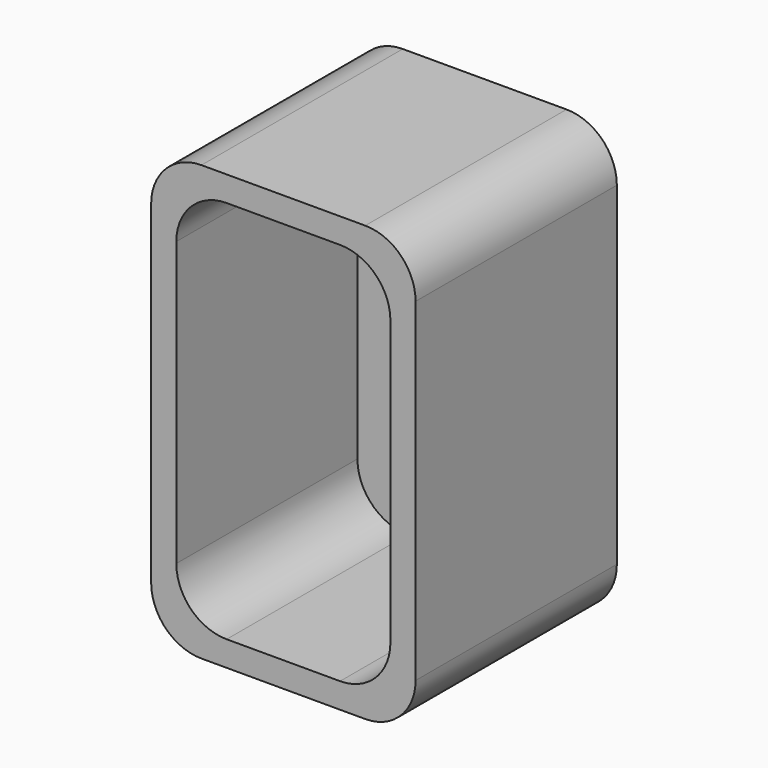
from build123d import *

# Parameters (mm, degrees)
F0_W     = 52.5484979153
F0_H     = 51.326431334
F1_DEPTH = 50
F2_DEPTH = 35
F3_T     = -5
F4_R     = 10
F5_R     = 10


with BuildPart() as f1:
    # F0 (on Front) → F1 (new body)
    with BuildSketch(Plane.XZ):
        with Locations((26.2742489576, 25.663215667)):
            Rectangle(F0_W, F0_H)
    extrude(amount=F1_DEPTH)

    # F2 (add): a face of the model
    f2_faces = [f1.faces().sort_by_distance(p)[0] for p in [
        (26.2742489576, -25, 51.326431334),
    ]]
    extrude(f2_faces, amount=F2_DEPTH)

    # F3
    f3_openings = [f1.faces().sort_by_distance(p)[0] for p in [
        (26.274249, -50, 43.163216),
    ]]
    offset(amount=F3_T, openings=f3_openings)

    # F4
    f4_edges = [f1.edges().sort_by_distance(p)[0] for p in [
        (0, -25, 0),
        (52.548498, -25, 0),
        (0, -25, 86.326431),
        (52.548498, -25, 86.326431),
    ]]
    fillet(f4_edges, radius=F4_R)

    # F5
    f5_edges = [f1.edges().sort_by_distance(p)[0] for p in [
        (5, -27.5, 5),
        (47.548498, -27.5, 5),
        (47.548498, -27.5, 81.326431),
        (5, -27.5, 81.326431),
    ]]
    fillet(f5_edges, radius=F5_R)


solid = f1.part
